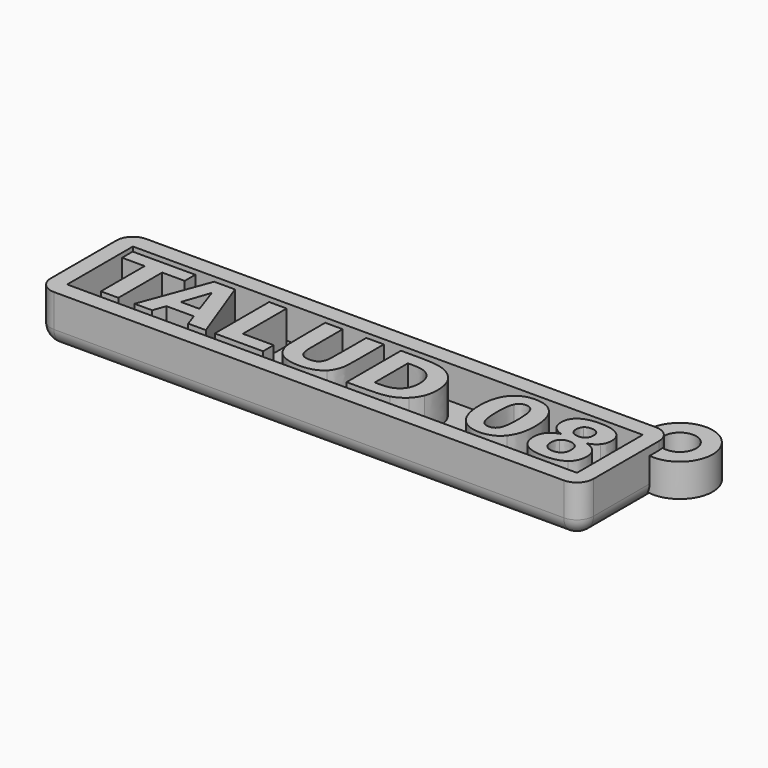
from build123d import *

# Parameters (mm, degrees)
BOX_W             = 62
BOX_H             = 10
BOX_DEPTH         = 4
THICKNESS_T       = 2
EXTRUDE007_DEPTH  = 5
EXTRUDE008_DEPTH  = 5
EXTRUDE005_DEPTH  = 5
EXTRUDE006_DEPTH  = 5
EXTRUDE003_DEPTH  = 5
EXTRUDE004_DEPTH  = 5
EXTRUDE002_DEPTH  = 5
EXTRUDE001_DEPTH  = 5
EXTRUDE009_DEPTH  = 5
EXTRUDE011_DEPTH  = 5
EXTRUDE010_DEPTH  = 5
EXTRUDE_DEPTH     = 5
CYLINDER001_R     = 2
CYLINDER001_DEPTH = 10
CYLINDER_R        = 4
CYLINDER_DEPTH    = 4


with BuildPart() as obj1:
    # Box → Box (new body)
    with BuildSketch(Plane(origin=(-28, -6, 1), x_dir=(1, 0, 0), z_dir=(0, 0, 1))):
        with Locations((31, 5)):
            Rectangle(BOX_W, BOX_H)
    extrude(amount=BOX_DEPTH)

    # Thickness
    thickness_openings = [obj1.faces().sort_by_distance(p)[0] for p in [
        (3, -1, 5),
    ]]
    offset(amount=THICKNESS_T, openings=thickness_openings)


with BuildPart() as extrude007:
    # path3351 → Extrude007 (new body)
    with BuildSketch(Plane(origin=(21.516561, -0.977308, 0), x_dir=(0, 1, 0), z_dir=(0, 0, 1))):
        with BuildLine():
            add(Edge.make_bspline(
                [(0.016605, -1.270295), (1.566421, -1.270295), (2.197417, -0.976937)],
                knots=[0, 0, 0, 1, 1, 1], degree=2))
            add(Edge.make_bspline(
                [(2.197417, -0.976937), (2.833948, -0.689115), (2.833948, -0.002768)],
                knots=[0, 0, 0, 1, 1, 1], degree=2))
            add(Edge.make_bspline(
                [(2.833948, -0.002768), (2.833948, 0.683579), (2.197417, 0.976937)],
                knots=[0, 0, 0, 1, 1, 1], degree=2))
            add(Edge.make_bspline(
                [(2.197417, 0.976937), (1.566421, 1.270295), (0.016605, 1.270295)],
                knots=[0, 0, 0, 1, 1, 1], degree=2))
            add(Edge.make_bspline(
                [(0.016605, 1.270295), (-1.549816, 1.270295), (-2.191882, 0.976937)],
                knots=[0, 0, 0, 1, 1, 1], degree=2))
            add(Edge.make_bspline(
                [(-2.191882, 0.976937), (-2.833948, 0.683579), (-2.833948, -0.002768)],
                knots=[0, 0, 0, 1, 1, 1], degree=2))
            add(Edge.make_bspline(
                [(-2.833948, -0.002768), (-2.833948, -0.683579), (-2.191882, -0.976937)],
                knots=[0, 0, 0, 1, 1, 1], degree=2))
            add(Edge.make_bspline(
                [(-2.191882, -0.976937), (-1.549816, -1.270295), (0.016605, -1.270295)],
                knots=[0, 0, 0, 1, 1, 1], degree=2))
        make_face()
    extrude(amount=EXTRUDE007_DEPTH)


with BuildPart() as cut001:
    # path3351001 → Extrude008 (new body)
    with BuildSketch(Plane(origin=(21.516561, -0.97454, 0), x_dir=(0, -1, 0), z_dir=(0, 0, -1))):
        with BuildLine():
            add(Edge.make_bspline(
                [(0.002768, -3.401292), (2.056273, -3.401292), (3.174354, -2.515683)],
                knots=[0, 0, 0, 1, 1, 1], degree=2))
            add(Edge.make_bspline(
                [(3.174354, -2.515683), (4.286901, -1.630074), (4.286901, -0.002767)],
                knots=[0, 0, 0, 1, 1, 1], degree=2))
            add(Edge.make_bspline(
                [(4.286901, -0.002767), (4.286901, 1.630074), (3.174354, 2.515683)],
                knots=[0, 0, 0, 1, 1, 1], degree=2))
            add(Edge.make_bspline(
                [(3.174354, 2.515683), (2.056273, 3.401292), (0.002768, 3.401292)],
                knots=[0, 0, 0, 1, 1, 1], degree=2))
            add(Edge.make_bspline(
                [(0.002768, 3.401292), (-2.056273, 3.401292), (-3.168819, 2.515683)],
                knots=[0, 0, 0, 1, 1, 1], degree=2))
            add(Edge.make_bspline(
                [(-3.168819, 2.515683), (-4.286901, 1.630074), (-4.286901, -0.002767)],
                knots=[0, 0, 0, 1, 1, 1], degree=2))
            add(Edge.make_bspline(
                [(-4.286901, -0.002767), (-4.286901, -1.630074), (-3.168819, -2.515683)],
                knots=[0, 0, 0, 1, 1, 1], degree=2))
            add(Edge.make_bspline(
                [(-3.168819, -2.515683), (-2.056273, -3.401292), (0.002768, -3.401292)],
                knots=[0, 0, 0, 1, 1, 1], degree=2))
        make_face()
    extrude(amount=-EXTRUDE008_DEPTH)

    # Cut001: cut Extrude007
    add(extrude007.part, mode=Mode.SUBTRACT)


with BuildPart() as extrude005:
    # path3349 → Extrude005 (new body)
    with BuildSketch(Plane(origin=(9.118036, -0.969005, 0), x_dir=(0, 1, 0), z_dir=(0, 0, 1))):
        with BuildLine():
            add(Edge.make_bspline(
                [(2.521218, 1.72417), (-2.521218, 1.72417)],
                knots=[0, 0, 17.866898, 17.866898], degree=1))
            add(Edge.make_bspline(
                [(-2.521218, 1.72417), (-2.521218, 0.960332)],
                knots=[0, 0, 2.706511, 2.706511], degree=1))
            add(Edge.make_bspline(
                [(-2.521218, 0.960332), (-2.521218, -0.345941), (-1.873616, -1.032288)],
                knots=[0, 0, 0, 1, 1, 1], degree=2))
            add(Edge.make_bspline(
                [(-1.873616, -1.032288), (-1.226015, -1.72417), (0.008303, -1.72417)],
                knots=[0, 0, 0, 1, 1, 1], degree=2))
            add(Edge.make_bspline(
                [(0.008303, -1.72417), (1.237085, -1.72417), (1.879151, -1.037823)],
                knots=[0, 0, 0, 1, 1, 1], degree=2))
            add(Edge.make_bspline(
                [(1.879151, -1.037823), (2.521218, -0.351476), (2.521218, 0.960332)],
                knots=[0, 0, 0, 1, 1, 1], degree=2))
            add(Edge.make_bspline(
                [(2.521218, 0.960332), (2.521218, 1.72417)],
                knots=[0, 0, 2.706511, 2.706511], degree=1))
        make_face()
    extrude(amount=EXTRUDE005_DEPTH)


with BuildPart() as cut:
    # path3349001 → Extrude006 (new body)
    with BuildSketch(Plane(origin=(9.151246, -0.969005, 0), x_dir=(0, -1, 0), z_dir=(0, 0, -1))):
        with BuildLine():
            add(Edge.make_bspline(
                [(-4.131919, 3.888377), (-4.131919, 1.641144)],
                knots=[0, 0, 7.962635, 7.962635], degree=1))
            add(Edge.make_bspline(
                [(-4.131919, 1.641144), (-4.131919, -0.240775), (-3.860702, -1.159594)],
                knots=[0, 0, 0, 1, 1, 1], degree=2))
            add(Edge.make_bspline(
                [(-3.860702, -1.159594), (-3.595019, -2.083949), (-2.952952, -2.74262)],
                knots=[0, 0, 0, 1, 1, 1], degree=2))
            add(Edge.make_bspline(
                [(-2.952952, -2.74262), (-2.393912, -3.323801), (-1.663284, -3.606089)],
                knots=[0, 0, 0, 1, 1, 1], degree=2))
            add(Edge.make_bspline(
                [(-1.663284, -3.606089), (-0.932657, -3.888377), (-0.008303, -3.888377)],
                knots=[0, 0, 0, 1, 1, 1], degree=2))
            add(Edge.make_bspline(
                [(-0.008303, -3.888377), (0.927122, -3.888377), (1.663284, -3.606089)],
                knots=[0, 0, 0, 1, 1, 1], degree=2))
            add(Edge.make_bspline(
                [(1.663284, -3.606089), (2.393911, -3.323801), (2.952952, -2.74262)],
                knots=[0, 0, 0, 1, 1, 1], degree=2))
            add(Edge.make_bspline(
                [(2.952952, -2.74262), (3.595019, -2.078413), (3.866236, -1.148524)],
                knots=[0, 0, 0, 1, 1, 1], degree=2))
            add(Edge.make_bspline(
                [(3.866236, -1.148524), (4.131919, -0.218635), (4.131919, 1.641144)],
                knots=[0, 0, 0, 1, 1, 1], degree=2))
            add(Edge.make_bspline(
                [(4.131919, 1.641144), (4.131919, 3.888377)],
                knots=[0, 0, 7.962635, 7.962635], degree=1))
            add(Edge.make_bspline(
                [(4.131919, 3.888377), (-4.131919, 3.888377)],
                knots=[0, 0, 29.281316, 29.281316], degree=1))
        make_face()
    extrude(amount=-EXTRUDE006_DEPTH)

    # Cut: cut Extrude005
    add(extrude005.part, mode=Mode.SUBTRACT)


with BuildPart() as extrude003:
    # path3345 → Extrude003 (new body)
    with BuildSketch(Plane(origin=(-7.830306, -0.969005, 0), x_dir=(0, -1, 0), z_dir=(0, 0, -1))):
        with BuildLine():
            add(Edge.make_bspline(
                [(-4.131919, 2.936347), (-4.131919, 0.805351)],
                knots=[0, 0, 7.550774, 7.550774], degree=1))
            add(Edge.make_bspline(
                [(-4.131919, 0.805351), (2.521218, 0.805351)],
                knots=[0, 0, 23.574107, 23.574107], degree=1))
            add(Edge.make_bspline(
                [(2.521218, 0.805351), (2.521218, -2.936347)],
                knots=[0, 0, 13.257984, 13.257984], degree=1))
            add(Edge.make_bspline(
                [(2.521218, -2.936347), (4.131919, -2.936347)],
                knots=[0, 0, 5.707209, 5.707209], degree=1))
            add(Edge.make_bspline(
                [(4.131919, -2.936347), (4.131919, 2.936347)],
                knots=[0, 0, 20.808758, 20.808758], degree=1))
            add(Edge.make_bspline(
                [(4.131919, 2.936347), (-4.131919, 2.936347)],
                knots=[0, 0, 29.281316, 29.281316], degree=1))
        make_face()
    extrude(amount=-EXTRUDE003_DEPTH)


with BuildPart() as extrude004:
    # path3347 → Extrude004 (new body)
    with BuildSketch(Plane(origin=(-0.385656, -1.049263, 0), x_dir=(0, -1, 0), z_dir=(0, 0, -1))):
        with BuildLine():
            add(Edge.make_bspline(
                [(-4.212177, 3.561808), (-4.212177, 1.430812)],
                knots=[0, 0, 7.550775, 7.550775], degree=1))
            add(Edge.make_bspline(
                [(-4.212177, 1.430812), (0.741697, 1.430812)],
                knots=[0, 0, 17.553099, 17.553099], degree=1))
            add(Edge.make_bspline(
                [(0.741697, 1.430812), (1.765683, 1.430812), (2.208487, 1.098709)],
                knots=[0, 0, 0, 1, 1, 1], degree=2))
            add(Edge.make_bspline(
                [(2.208487, 1.098709), (2.645757, 0.76107), (2.645757, 0.002768)],
                knots=[0, 0, 0, 1, 1, 1], degree=2))
            add(Edge.make_bspline(
                [(2.645757, 0.002768), (2.645757, -0.76107), (2.208487, -1.093173)],
                knots=[0, 0, 0, 1, 1, 1], degree=2))
            add(Edge.make_bspline(
                [(2.208487, -1.093173), (1.765683, -1.430812), (0.741697, -1.430812)],
                knots=[0, 0, 0, 1, 1, 1], degree=2))
            add(Edge.make_bspline(
                [(0.741697, -1.430812), (-4.212177, -1.430812)],
                knots=[0, 0, 17.553099, 17.553099], degree=1))
            add(Edge.make_bspline(
                [(-4.212177, -1.430812), (-4.212177, -3.561808)],
                knots=[0, 0, 7.550775, 7.550775], degree=1))
            add(Edge.make_bspline(
                [(-4.212177, -3.561808), (0.741697, -3.561808)],
                knots=[0, 0, 17.553099, 17.553099], degree=1))
            add(Edge.make_bspline(
                [(0.741697, -3.561808), (2.49631, -3.561808), (3.354244, -2.681734)],
                knots=[0, 0, 0, 1, 1, 1], degree=2))
            add(Edge.make_bspline(
                [(3.354244, -2.681734), (4.212177, -1.801661), (4.212177, 0.002768)],
                knots=[0, 0, 0, 1, 1, 1], degree=2))
            add(Edge.make_bspline(
                [(4.212177, 0.002768), (4.212177, 1.801661), (3.354244, 2.681734)],
                knots=[0, 0, 0, 1, 1, 1], degree=2))
            add(Edge.make_bspline(
                [(3.354244, 2.681734), (2.49631, 3.561808), (0.741697, 3.561808)],
                knots=[0, 0, 0, 1, 1, 1], degree=2))
            add(Edge.make_bspline(
                [(0.741697, 3.561808), (-4.212177, 3.561808)],
                knots=[0, 0, 17.553099, 17.553099], degree=1))
        make_face()
    extrude(amount=-EXTRUDE004_DEPTH)


with BuildPart() as extrude002:
    # path3343001 → Extrude002 (new body)
    with BuildSketch(Plane(origin=(-16.18824, -0.418267, 0), x_dir=(0, 1, 0), z_dir=(0, 0, 1))):
        with BuildLine():
            add(Edge.make_bspline(
                [(-1.643912, 1.131919), (-1.643912, -1.131919)],
                knots=[0, 0, 8.021473, 8.021473], degree=1))
            add(Edge.make_bspline(
                [(-1.643912, -1.131919), (1.643912, -0.002768)],
                knots=[0, 0, 12.31765, 12.31765], degree=1))
            add(Edge.make_bspline(
                [(1.643912, -0.002768), (-1.643912, 1.131919)],
                knots=[0, 0, 12.324035, 12.324035], degree=1))
        make_face()
    extrude(amount=EXTRUDE002_DEPTH)


with BuildPart() as cut004:
    # path3343 → Extrude001 (new body)
    with BuildSketch(Plane(origin=(-16.18824, -0.969005, 0), x_dir=(0, -1, 0), z_dir=(0, 0, -1))):
        with BuildLine():
            add(Edge.make_bspline(
                [(2.626384, -1.668819), (2.626384, 1.663284)],
                knots=[0, 0, 11.806666, 11.806666], degree=1))
            add(Edge.make_bspline(
                [(2.626384, 1.663284), (4.131919, 2.189114)],
                knots=[0, 0, 5.650585, 5.650585], degree=1))
            add(Edge.make_bspline(
                [(4.131919, 2.189114), (4.131919, 4.331181)],
                knots=[0, 0, 7.59, 7.59], degree=1))
            add(Edge.make_bspline(
                [(4.131919, 4.331181), (-4.131919, 1.270295)],
                knots=[0, 0, 31.225371, 31.225371], degree=1))
            add(Edge.make_bspline(
                [(-4.131919, 1.270295), (-4.131919, -1.270295)],
                knots=[0, 0, 9.002093, 9.002093], degree=1))
            add(Edge.make_bspline(
                [(-4.131919, -1.270295), (4.131919, -4.331181)],
                knots=[0, 0, 31.225371, 31.225371], degree=1))
            add(Edge.make_bspline(
                [(4.131919, -4.331181), (4.131919, -2.189114)],
                knots=[0, 0, 7.59, 7.59], degree=1))
            add(Edge.make_bspline(
                [(4.131919, -2.189114), (2.626384, -1.668819)],
                knots=[0, 0, 5.644148, 5.644148], degree=1))
        make_face()
    extrude(amount=-EXTRUDE001_DEPTH)

    # Cut004: cut Extrude002
    add(extrude002.part, mode=Mode.SUBTRACT)


with BuildPart() as extrude009:
    # path3353 → Extrude009 (new body)
    with BuildSketch(Plane(origin=(29.392943, -2.662732, 0), x_dir=(0, 1, 0), z_dir=(0, 0, 1))):
        with BuildLine():
            add(Edge.make_bspline(
                [(1.259225, -0.008302), (1.259225, 0.589484), (0.932657, 0.910517)],
                knots=[0, 0, 0, 1, 1, 1], degree=2))
            add(Edge.make_bspline(
                [(0.932657, 0.910517), (0.606089, 1.231549), (-0.002768, 1.231549)],
                knots=[0, 0, 0, 1, 1, 1], degree=2))
            add(Edge.make_bspline(
                [(-0.002768, 1.231549), (-0.611624, 1.231549), (-0.938192, 0.910517)],
                knots=[0, 0, 0, 1, 1, 1], degree=2))
            add(Edge.make_bspline(
                [(-0.938192, 0.910517), (-1.259225, 0.589484), (-1.259225, -0.008302)],
                knots=[0, 0, 0, 1, 1, 1], degree=2))
            add(Edge.make_bspline(
                [(-1.259225, -0.008302), (-1.259225, -0.600554), (-0.938192, -0.916053)],
                knots=[0, 0, 0, 1, 1, 1], degree=2))
            add(Edge.make_bspline(
                [(-0.938192, -0.916053), (-0.611624, -1.231549), (-0.002768, -1.231549)],
                knots=[0, 0, 0, 1, 1, 1], degree=2))
            add(Edge.make_bspline(
                [(-0.002768, -1.231549), (0.611624, -1.231549), (0.932657, -0.916053)],
                knots=[0, 0, 0, 1, 1, 1], degree=2))
            add(Edge.make_bspline(
                [(0.932657, -0.916053), (1.259225, -0.600554), (1.259225, -0.008302)],
                knots=[0, 0, 0, 1, 1, 1], degree=2))
        make_face()
    extrude(amount=EXTRUDE009_DEPTH)


with BuildPart() as extrude011:
    # path3353002 → Extrude011 (new body)
    with BuildSketch(Plane(origin=(29.392942, 0.951659, 0), x_dir=(0, 1, 0), z_dir=(0, 0, 1))):
        with BuildLine():
            add(Edge.make_bspline(
                [(0.002768, 1.048893), (-0.489852, 1.048893), (-0.755535, 0.777675)],
                knots=[0, 0, 0, 1, 1, 1], degree=2))
            add(Edge.make_bspline(
                [(-0.755535, 0.777675), (-1.021218, 0.500922), (-1.021218, -0.008303)],
                knots=[0, 0, 0, 1, 1, 1], degree=2))
            add(Edge.make_bspline(
                [(-1.021218, -0.008303), (-1.021218, -0.506459), (-0.755535, -0.777677)],
                knots=[0, 0, 0, 1, 1, 1], degree=2))
            add(Edge.make_bspline(
                [(-0.755535, -0.777677), (-0.489852, -1.048893), (0.002768, -1.048893)],
                knots=[0, 0, 0, 1, 1, 1], degree=2))
            add(Edge.make_bspline(
                [(0.002768, -1.048893), (0.495387, -1.048893), (0.755535, -0.777677)],
                knots=[0, 0, 0, 1, 1, 1], degree=2))
            add(Edge.make_bspline(
                [(0.755535, -0.777677), (1.021218, -0.506459), (1.021218, -0.008303)],
                knots=[0, 0, 0, 1, 1, 1], degree=2))
            add(Edge.make_bspline(
                [(1.021218, -0.008303), (1.021218, 0.500922), (0.755535, 0.777675)],
                knots=[0, 0, 0, 1, 1, 1], degree=2))
            add(Edge.make_bspline(
                [(0.755535, 0.777675), (0.489852, 1.048893), (0.002768, 1.048893)],
                knots=[0, 0, 0, 1, 1, 1], degree=2))
        make_face()
    extrude(amount=EXTRUDE011_DEPTH)


with BuildPart() as cut003:
    # path3353001 → Extrude010 (new body)
    with BuildSketch(Plane(origin=(29.392943, -0.97454, 0), x_dir=(0, -1, 0), z_dir=(0, 0, -1))):
        with BuildLine():
            add(Edge.make_bspline(
                [(-0.273985, 1.547048), (-0.500923, 2.299816), (-0.971402, 2.681735)],
                knots=[0, 0, 0, 1, 1, 1], degree=2))
            add(Edge.make_bspline(
                [(-0.971402, 2.681735), (-1.441882, 3.063653), (-2.144834, 3.063653)],
                knots=[0, 0, 0, 1, 1, 1], degree=2))
            add(Edge.make_bspline(
                [(-2.144834, 3.063653), (-3.19096, 3.063653), (-3.73893, 2.283211)],
                knots=[0, 0, 0, 1, 1, 1], degree=2))
            add(Edge.make_bspline(
                [(-3.73893, 2.283211), (-4.286901, 1.502768), (-4.286901, -0.008302)],
                knots=[0, 0, 0, 1, 1, 1], degree=2))
            add(Edge.make_bspline(
                [(-4.286901, -0.008302), (-4.286901, -1.508301), (-3.73893, -2.288745)],
                knots=[0, 0, 0, 1, 1, 1], degree=2))
            add(Edge.make_bspline(
                [(-3.73893, -2.288745), (-3.196495, -3.069188), (-2.144834, -3.069188)],
                knots=[0, 0, 0, 1, 1, 1], degree=2))
            add(Edge.make_bspline(
                [(-2.144834, -3.069188), (-1.441882, -3.069188), (-0.971402, -2.681733)],
                knots=[0, 0, 0, 1, 1, 1], degree=2))
            add(Edge.make_bspline(
                [(-0.971402, -2.681733), (-0.500923, -2.299816), (-0.273985, -1.547048)],
                knots=[0, 0, 0, 1, 1, 1], degree=2))
            add(Edge.make_bspline(
                [(-0.273985, -1.547048), (-0.041513, -2.388378), (0.484317, -2.814575)],
                knots=[0, 0, 0, 1, 1, 1], degree=2))
            add(Edge.make_bspline(
                [(0.484317, -2.814575), (1.004613, -3.24631), (1.801661, -3.24631)],
                knots=[0, 0, 0, 1, 1, 1], degree=2))
            add(Edge.make_bspline(
                [(1.801661, -3.24631), (3.030443, -3.24631), (3.661439, -2.427121)],
                knots=[0, 0, 0, 1, 1, 1], degree=2))
            add(Edge.make_bspline(
                [(3.661439, -2.427121), (4.286901, -1.613469), (4.286901, -0.008302)],
                knots=[0, 0, 0, 1, 1, 1], degree=2))
            add(Edge.make_bspline(
                [(4.286901, -0.008302), (4.286901, 1.602399), (3.661439, 2.427122)],
                knots=[0, 0, 0, 1, 1, 1], degree=2))
            add(Edge.make_bspline(
                [(3.661439, 2.427122), (3.030443, 3.24631), (1.801661, 3.24631)],
                knots=[0, 0, 0, 1, 1, 1], degree=2))
            add(Edge.make_bspline(
                [(1.801661, 3.24631), (1.004613, 3.24631), (0.484317, 2.820111)],
                knots=[0, 0, 0, 1, 1, 1], degree=2))
            add(Edge.make_bspline(
                [(0.484317, 2.820111), (-0.041513, 2.388377), (-0.273985, 1.547048)],
                knots=[0, 0, 0, 1, 1, 1], degree=2))
        make_face()
    extrude(amount=-EXTRUDE010_DEPTH)

    # Cut002: cut Extrude011
    add(extrude011.part, mode=Mode.SUBTRACT)

    # Cut003: cut Extrude009
    add(extrude009.part, mode=Mode.SUBTRACT)


with BuildPart() as obj2:
    # path3341 → Extrude (new body)
    with BuildSketch(Plane(origin=(-23.552631, -0.969005, 0), x_dir=(0, -1, 0), z_dir=(0, 0, -1))):
        with BuildLine():
            add(Edge.make_bspline(
                [(-4.131919, 3.808118), (-4.131919, -3.808118)],
                knots=[0, 0, 26.986664, 26.986664], degree=1))
            add(Edge.make_bspline(
                [(-4.131919, -3.808118), (-2.521218, -3.808118)],
                knots=[0, 0, 5.707209, 5.707209], degree=1))
            add(Edge.make_bspline(
                [(-2.521218, -3.808118), (-2.521218, -1.068266)],
                knots=[0, 0, 9.708139, 9.708139], degree=1))
            add(Edge.make_bspline(
                [(-2.521218, -1.068266), (4.131919, -1.068266)],
                knots=[0, 0, 23.574107, 23.574107], degree=1))
            add(Edge.make_bspline(
                [(4.131919, -1.068266), (4.131919, 1.062731)],
                knots=[0, 0, 7.550774, 7.550774], degree=1))
            add(Edge.make_bspline(
                [(4.131919, 1.062731), (-2.521218, 1.062731)],
                knots=[0, 0, 23.574107, 23.574107], degree=1))
            add(Edge.make_bspline(
                [(-2.521218, 1.062731), (-2.521218, 3.808118)],
                knots=[0, 0, 9.727751, 9.727751], degree=1))
            add(Edge.make_bspline(
                [(-2.521218, 3.808118), (-4.131919, 3.808118)],
                knots=[0, 0, 5.707209, 5.707209], degree=1))
        make_face()
    extrude(amount=-EXTRUDE_DEPTH)

    # Fusion: union Cut001, Cut, Extrude003, Extrude004, Cut004, Cut003
    add(cut001.part)
    add(cut.part)
    add(extrude003.part)
    add(extrude004.part)
    add(cut004.part)
    add(cut003.part)


with BuildPart() as cilindro001:
    # Cylinder001 → Cylinder001 (new body)
    with BuildSketch(Plane.XY.offset(-3)):
        Circle(CYLINDER001_R)
    extrude(amount=CYLINDER001_DEPTH)


with BuildPart() as fusion001:
    # Cylinder → Cylinder (new body)
    with BuildSketch(Plane.XY):
        Circle(CYLINDER_R)
    extrude(amount=CYLINDER_DEPTH)

    # Cut005: cut Cilindro001
    add(cilindro001.part, mode=Mode.SUBTRACT)


with BuildPart() as fusion001_1:
    # Cut005 placement: moved
    add(fusion001.part.moved(Location((36.5, 6.5, 0))))

    # Fusion001: union obj1, obj2
    add(obj1.part)
    add(obj2.part)


solid = fusion001_1.part
